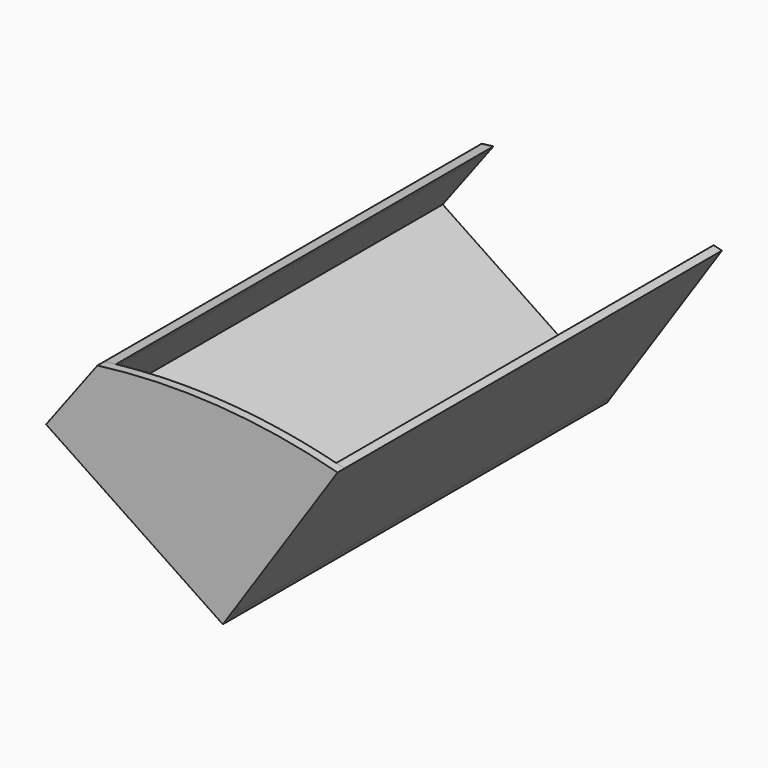
from build123d import *

# Parameters (mm, degrees)
F1_DEPTH = 3.175
F3_DEPTH = 174.625


with BuildPart() as f1:
    # F0 (on Front) → F1 (new body)
    with BuildSketch(Plane.XZ):
        with BuildLine():
            Line((20.4908837134, 162.7397981819), (59.4037032784, 220.7468233901))
            ThreePointArc((59.4037032784, 220.7468233901), (15.2610514505, 228.0900267627), (-29.4663954931, 226.6929454938))
            Line((-29.4663954931, 226.6929454938), (-44.4479610539, 206.7020313656))
            Line((-44.4479610539, 206.7020313656), (-48.4604295981, 201.3479237602))
            Line((-48.4604295981, 201.3479237602), (-42.9040727029, 197.6205560401))
            Line((-42.9040727029, 197.6205560401), (11.679988734, 161.0039613053))
            Line((11.679988734, 161.0039613053), (16.953354662, 157.4664322539))
            Line((16.953354662, 157.4664322539), (20.4908837134, 162.7397981819))
        make_face()
    extrude(amount=F1_DEPTH)

    # F2 (on face) → F3 (join)
    with BuildSketch(Plane(origin=(0, 0, 0), x_dir=(-1, 0, 0), z_dir=(0, 1, 0))):
        Polygon((45.8552547108, 199.6002957797), (43.9168284375, 202.1868687929), (-16.291442731, 161.7973886585), (-14.4932063045, 159.1167721704), align=None)
        Polygon((-16.291442731, 161.7973886585), (-18.7515910885, 160.1470487419), (-16.953354662, 157.4664322539), (-14.4932063045, 159.1167721704), align=None)
        with BuildLine():
            ThreePointArc((-56.3688343066, 221.540431938), (-57.8876283346, 221.1488267412), (-59.4037032784, 220.7468233901))
            Line((-59.4037032784, 220.7468233901), (-18.7515910885, 160.1470487419))
            Line((-18.7515910885, 160.1470487419), (-16.291442731, 161.7973886585))
            Line((-16.291442731, 161.7973886585), (-56.3688343066, 221.540431938))
        make_face()
        Polygon((-16.291442731, 161.7973886585), (-18.7515910885, 160.1470487419), (-16.953354662, 157.4664322539), (-14.4932063045, 159.1167721704), align=None)
        Polygon((48.4604295981, 201.3479237602), (46.5220033247, 203.9344967734), (43.9168284375, 202.1868687929), (45.8552547108, 199.6002957797), align=None)
        Polygon((46.5220033247, 203.9344967734), (29.4663954931, 226.6929454938), (26.9594739117, 224.8142114956), (43.9168284375, 202.1868687929), align=None)
        with BuildLine():
            Line((26.9594739117, 224.8142114956), (29.4663954931, 226.6929454938))
            ThreePointArc((29.4663954931, 226.6929454938), (27.3165510867, 226.9614957509), (25.1642610874, 227.2096851372))
            Line((25.1642610874, 227.2096851372), (26.9594739117, 224.8142114956))
        make_face()
    extrude(amount=F3_DEPTH)


solid = f1.part
